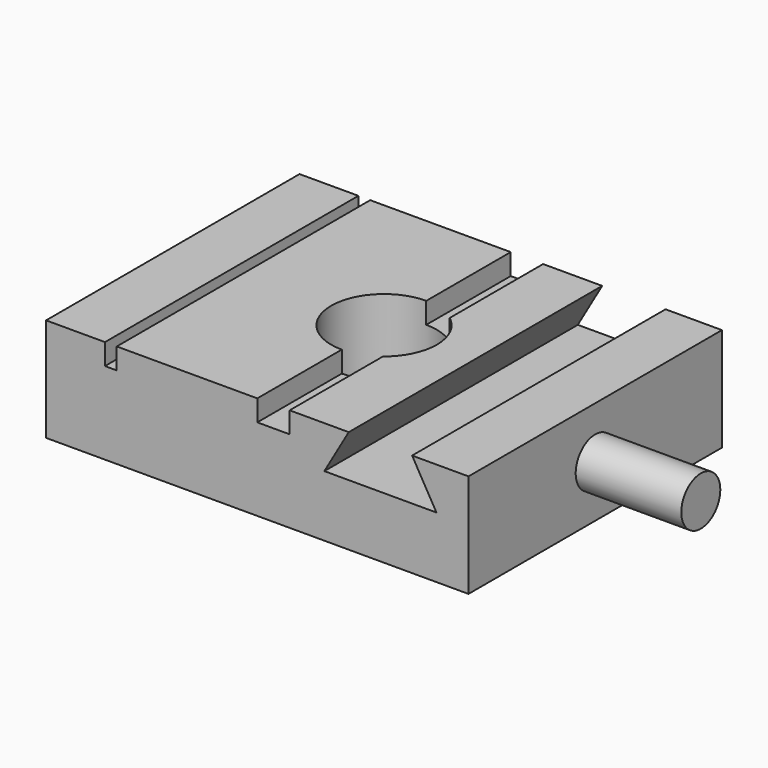
from build123d import *

# Parameters (mm, degrees)
F0_W     = 50.8
F0_H     = 38.1
F0_R     = 6.35
F1_DEPTH = 12.446
F2_W     = 1.417765
F2_H     = 38.1
F3_DEPTH = 2.54
F5_DEPTH = 38.1
F6_R     = 2.931554
F7_DEPTH = 12.7


with BuildPart() as f1:
    # F0 (on Top) → F1 (new body)
    with BuildSketch(Plane.XY):
        Rectangle(F0_W, F0_H)
        Circle(F0_R, mode=Mode.SUBTRACT)
    extrude(amount=F1_DEPTH)

    # F2 (on face) → F3 (cut)
    with BuildSketch(Plane.XY.offset(12.446)):
        with Locations((-17.610003, 0)):
            Rectangle(F2_W, F2_H)
        with BuildLine():
            Line((3.892783, 19.05), (0, 19.05))
            Line((0, 19.05), (0, 6.35))
            ThreePointArc((0, 6.35), (2.057368, 6.007473), (3.892783, 5.016846))
            Line((3.892783, 5.016846), (3.892783, 19.05))
        make_face()
        with BuildLine():
            Line((0, -6.35), (0, -19.05))
            Line((0, -19.05), (3.892783, -19.05))
            Line((3.892783, -19.05), (3.892783, -5.016846))
            ThreePointArc((3.892783, -5.016846), (2.057368, -6.007473), (0, -6.35))
        make_face()
    extrude(amount=-F3_DEPTH, mode=Mode.SUBTRACT)

    # F4 (on face) → F5 (cut)
    with BuildSketch(Plane.XZ.offset(19.05)):
        Polygon((14.809987, 12.446), (10.999987, 12.446), (8.067048, 7.366), (14.809987, 7.366), align=None)
        Polygon((18.619987, 12.446), (14.809987, 12.446), (14.809987, 7.366), (21.552927, 7.366), align=None)
    extrude(amount=-F5_DEPTH, mode=Mode.SUBTRACT)

    # F6 (on face) → F7 (join)
    with BuildSketch(Plane.YZ.offset(25.4)):
        with Locations((0, 6.223)):
            Circle(F6_R)
    extrude(amount=F7_DEPTH)


solid = f1.part
